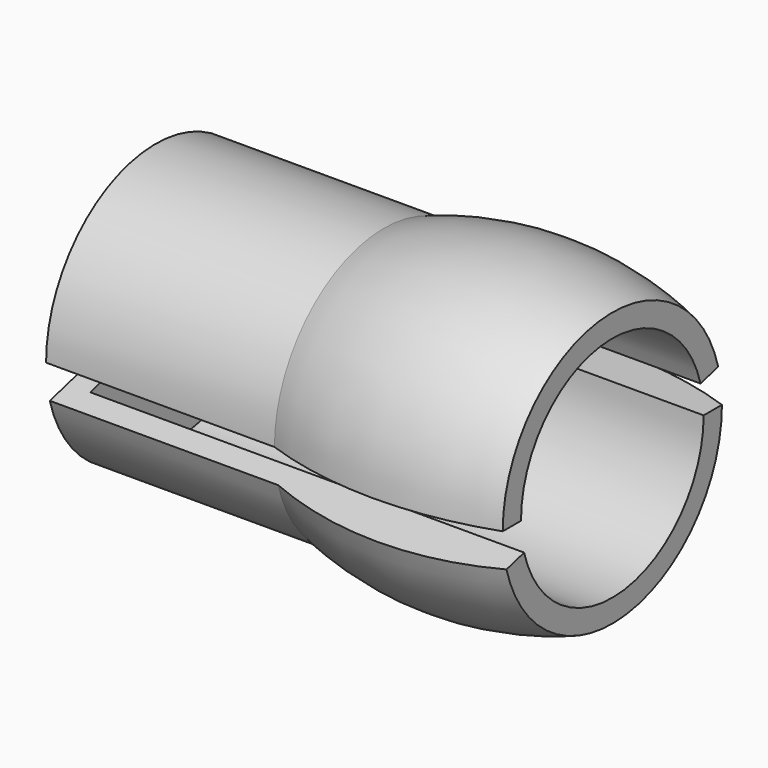
from build123d import *

# Parameters (mm, degrees)
F1_ANGLE = 165
F2_ANGLE = 165


with BuildPart() as f1:
    # F0 (on Top) → F1 (revolve)
    with BuildSketch(Plane.XY):
        with BuildLine():
            Line((-35.763178, 2.54), (-33.223178, 2.54))
            Line((-33.223178, 2.54), (-33.223178, 12.7))
            Line((-33.223178, 12.7), (15.036822, 12.7))
            Line((15.036822, 12.7), (15.036822, 15.24))
            ThreePointArc((15.036822, 15.24), (2.336822, 17.418976), (-10.363178, 15.24))
            Line((-10.363178, 15.24), (-35.763178, 15.24))
            Line((-35.763178, 15.24), (-35.763178, 2.54))
        make_face()
    revolve(axis=Axis((0, 0, 0), (-1, 0, 0)), revolution_arc=F1_ANGLE)


with BuildPart() as f2:
    # F0 (on Top) → F2 (revolve)
    with BuildSketch(Plane.XY):
        with BuildLine():
            Line((-33.223178, -12.7), (-33.223178, -2.54))
            Line((-33.223178, -2.54), (-35.763178, -2.54))
            Line((-35.763178, -2.54), (-35.763178, -15.24))
            Line((-35.763178, -15.24), (-10.363178, -15.24))
            ThreePointArc((-10.363178, -15.24), (2.336822, -17.418976), (15.036822, -15.24))
            Line((15.036822, -15.24), (15.036822, -12.7))
            Line((15.036822, -12.7), (-33.223178, -12.7))
        make_face()
    revolve(axis=Axis((0, 0, 0), (-1, 0, 0)), revolution_arc=F2_ANGLE)


solid = Compound([f1.part, f2.part])
